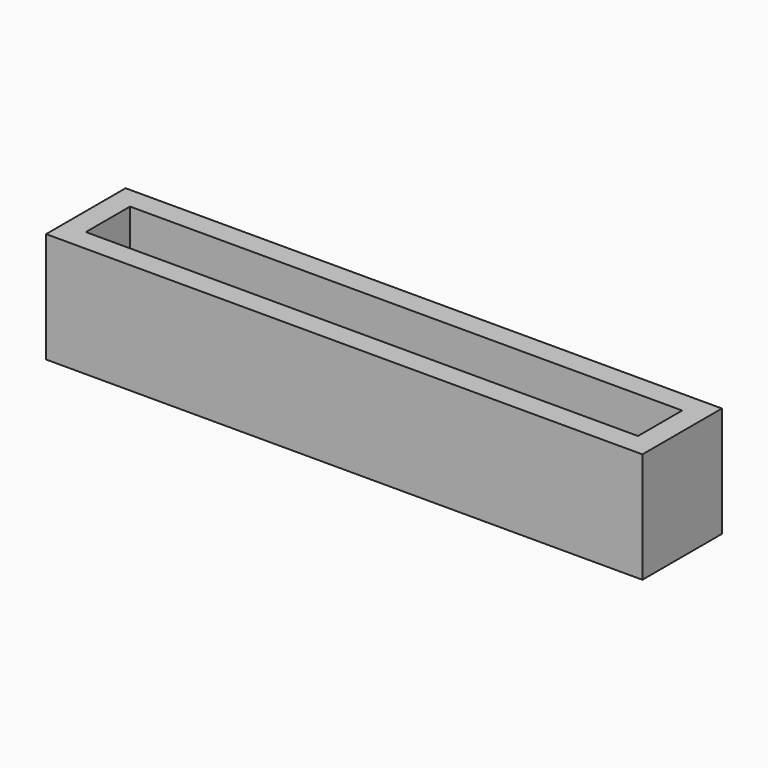
from build123d import *

# Parameters (mm, degrees)
F0_W     = 54
F0_H     = 9
F0_W_2   = 50
F0_H_2   = 5
F1_DEPTH = 1.2
F2_DEPTH = 10


with BuildPart() as f1:
    # F0 (on Top) → F1 (new body)
    with BuildSketch(Plane.XY):
        with Locations((-25, 14.603003)):
            Rectangle(F0_W, F0_H)
        with Locations((-25, 14.603003)):
            Rectangle(F0_W_2, F0_H_2, mode=Mode.SUBTRACT)
        with Locations((-25, 14.603003)):
            Rectangle(F0_W_2, F0_H_2)
    extrude(amount=F1_DEPTH)

    # F0 (on Top) → F2 (join)
    with BuildSketch(Plane.XY):
        with Locations((-25, 14.603003)):
            Rectangle(F0_W, F0_H)
        with Locations((-25, 14.603003)):
            Rectangle(F0_W_2, F0_H_2, mode=Mode.SUBTRACT)
    extrude(amount=F2_DEPTH)


solid = f1.part
